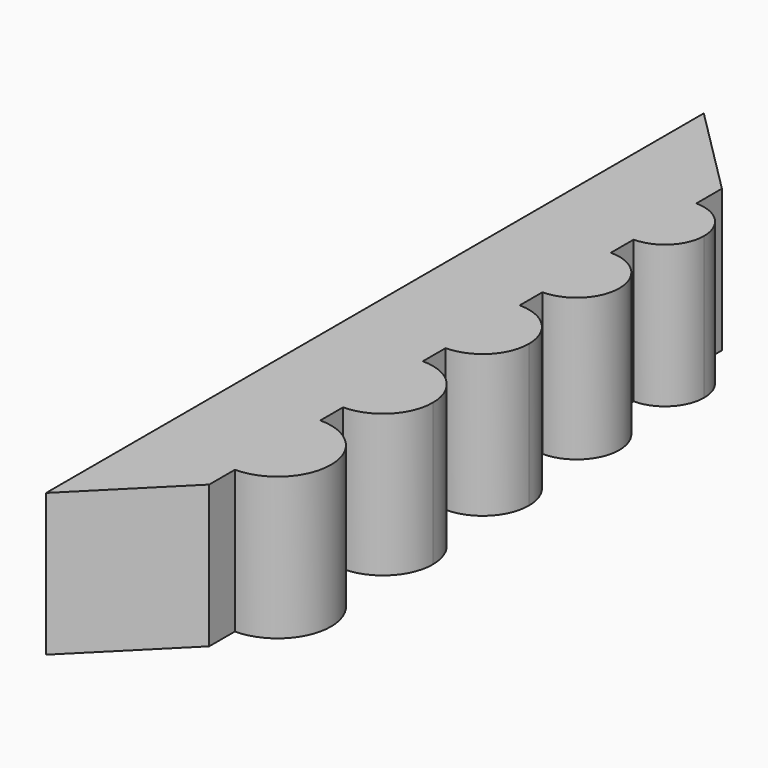
from build123d import *

# Parameters (mm, degrees)
F1_DEPTH = 100


with BuildPart() as f1:
    # F0 (on Top) → F1 (new body)
    with BuildSketch(Plane.XY):
        with BuildLine():
            Line((0, 0), (-63.6396103068, 63.6396103068))
            Line((-63.6396103068, 63.6396103068), (-63.6396103068, -513.6396103068))
            Line((-63.6396103068, -513.6396103068), (0, -450))
            Line((0, -450), (0, -427.5))
            ThreePointArc((0, -427.5), (-37.5, -390), (0, -352.5))
            Line((0, -352.5), (0, -332.5))
            ThreePointArc((0, -332.5), (-35, -297.5), (0, -262.5))
            Line((0, -262.5), (0, -242.5))
            ThreePointArc((0, -242.5), (-32.5, -210), (0, -177.5))
            Line((0, -177.5), (0, -157.5))
            ThreePointArc((0, -157.5), (-30, -127.5), (0, -97.5))
            Line((0, -97.5), (0, -77.5))
            ThreePointArc((0, -77.5), (-27.5, -50), (0, -22.5))
            Line((0, -22.5), (0, 0))
        make_face()
        with BuildLine():
            Line((0, -77.5), (0, -22.5))
            ThreePointArc((0, -22.5), (-27.5, -50), (0, -77.5))
        make_face()
        with BuildLine():
            ThreePointArc((27.5, -50), (19.4454364826, -30.5545635174), (0, -22.5))
            Line((0, -22.5), (0, -77.5))
            ThreePointArc((0, -77.5), (19.4454364826, -69.4454364826), (27.5, -50))
        make_face()
        with BuildLine():
            ThreePointArc((30, -127.5), (21.2132034356, -106.2867965644), (0, -97.5))
            Line((0, -97.5), (0, -157.5))
            ThreePointArc((0, -157.5), (21.2132034356, -148.7132034356), (30, -127.5))
        make_face()
        with BuildLine():
            Line((0, -157.5), (0, -97.5))
            ThreePointArc((0, -97.5), (-30, -127.5), (0, -157.5))
        make_face()
        with BuildLine():
            Line((0, -242.5), (0, -177.5))
            ThreePointArc((0, -177.5), (-32.5, -210), (0, -242.5))
        make_face()
        with BuildLine():
            ThreePointArc((32.5, -210), (22.9809703886, -187.0190296114), (0, -177.5))
            Line((0, -177.5), (0, -242.5))
            ThreePointArc((0, -242.5), (22.9809703886, -232.9809703886), (32.5, -210))
        make_face()
        with BuildLine():
            Line((0, -262.5), (0, -332.5))
            ThreePointArc((0, -332.5), (24.7487373415, -322.2487373415), (35, -297.5))
            ThreePointArc((35, -297.5), (24.7487373415, -272.7512626585), (0, -262.5))
        make_face()
        with BuildLine():
            ThreePointArc((0, -262.5), (-35, -297.5), (0, -332.5))
            Line((0, -332.5), (0, -262.5))
        make_face()
        with BuildLine():
            ThreePointArc((0, -352.5), (-37.5, -390), (0, -427.5))
            Line((0, -427.5), (0, -352.5))
        make_face()
        with BuildLine():
            Line((0, -352.5), (0, -427.5))
            ThreePointArc((0, -427.5), (26.5165042945, -416.5165042945), (37.5, -390))
            ThreePointArc((37.5, -390), (26.5165042945, -363.4834957055), (0, -352.5))
        make_face()
    extrude(amount=F1_DEPTH)


solid = f1.part
